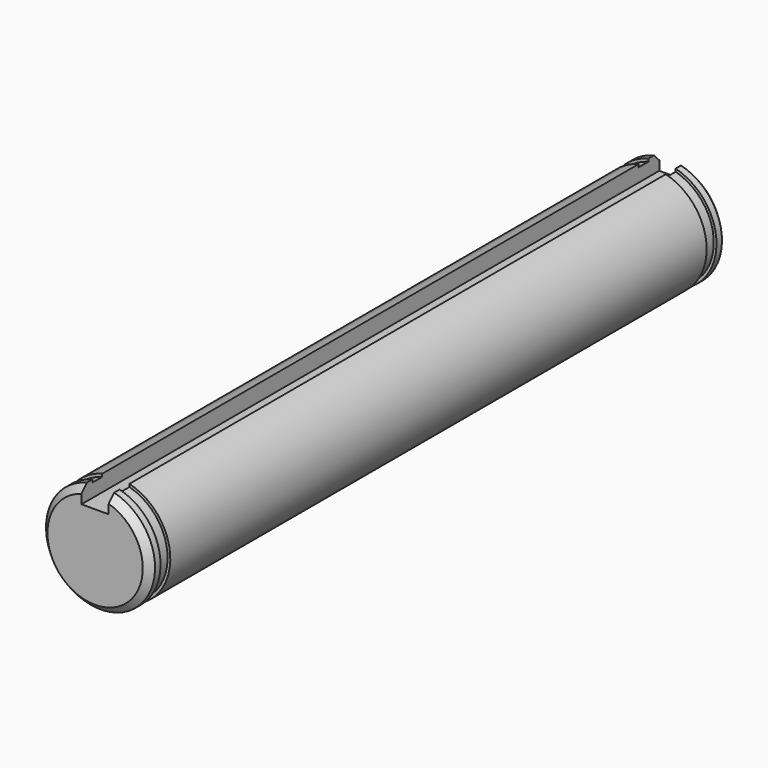
from build123d import *

# Parameters (mm, degrees)
F0_R      = 4
F1_DEPTH  = 53
F2_W      = 2
F2_H      = 2.6729833462
F3_DEPTH  = 53.001
F4_SIZE   = 0.5
F6_R      = 5.1282432724
F6_R_2    = 3.8
F7_DEPTH  = 0.9
F9_R      = 7.9440327168
F9_R_2    = 3.8
F10_DEPTH = 0.9


with BuildPart() as f1:
    # F0 (on Front) → F1 (new body)
    with BuildSketch(Plane.XZ):
        Circle(F0_R)
    extrude(amount=F1_DEPTH)

    # F2 (on face) → F3 (cut, through all)
    with BuildSketch(Plane.XZ.offset(53)):
        with Locations((0, 4.0094750193)):
            Rectangle(F2_W, F2_H)
    extrude(amount=-F3_DEPTH, mode=Mode.SUBTRACT)

    # F4
    f4_edges = [f1.edges().sort_by_distance(p)[0] for p in [
        (0, -53, -4),
        (0, 0, -4),
    ]]
    chamfer(f4_edges, length=F4_SIZE)

    # F6 (on offset) → F7 (cut)
    with BuildSketch(Plane.XZ.offset(52)):
        Circle(F6_R)
        Circle(F6_R_2, mode=Mode.SUBTRACT)
    extrude(amount=-F7_DEPTH, mode=Mode.SUBTRACT)

    # F9 (on offset) → F10 (cut)
    with BuildSketch(Plane(origin=(0, -1, 0), x_dir=(-1, 0, 0), z_dir=(0, 1, 0))):
        Circle(F9_R)
        Circle(F9_R_2, mode=Mode.SUBTRACT)
    extrude(amount=-F10_DEPTH, mode=Mode.SUBTRACT)


solid = f1.part
